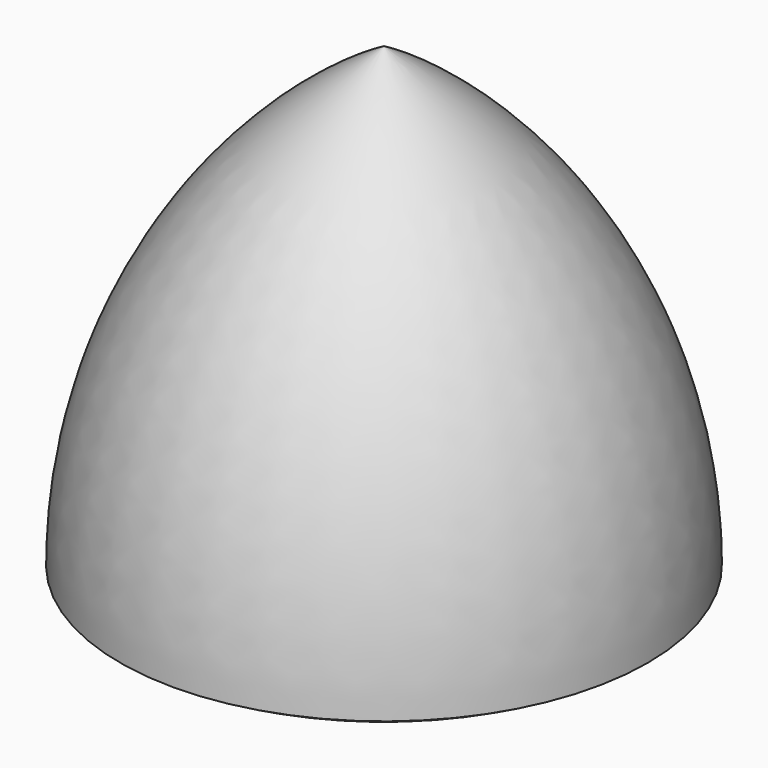
from build123d import *


with BuildPart() as f1:
    # F0 (on Front) → F1 (revolve)
    with BuildSketch(Plane.XZ):
        Polygon((-87.117255, -50.297171), (0, -50.297171), (0, 100.594342), align=None)
        with BuildLine():
            Line((-87.117255, -50.297171), (0, 100.594342))
            ThreePointArc((0, 100.594342), (-63.774257, 36.820085), (-87.117255, -50.297171))
        make_face()
        with BuildLine():
            Line((0, -73.640169), (0, -50.297171))
            Line((0, -50.297171), (-87.117255, -50.297171))
            ThreePointArc((-87.117255, -50.297171), (-45.09521, -67.703272), (0, -73.640169))
        make_face()
    revolve(axis=Axis((0, 0, 25.148585), (0, 0, -1)))


solid = f1.part
